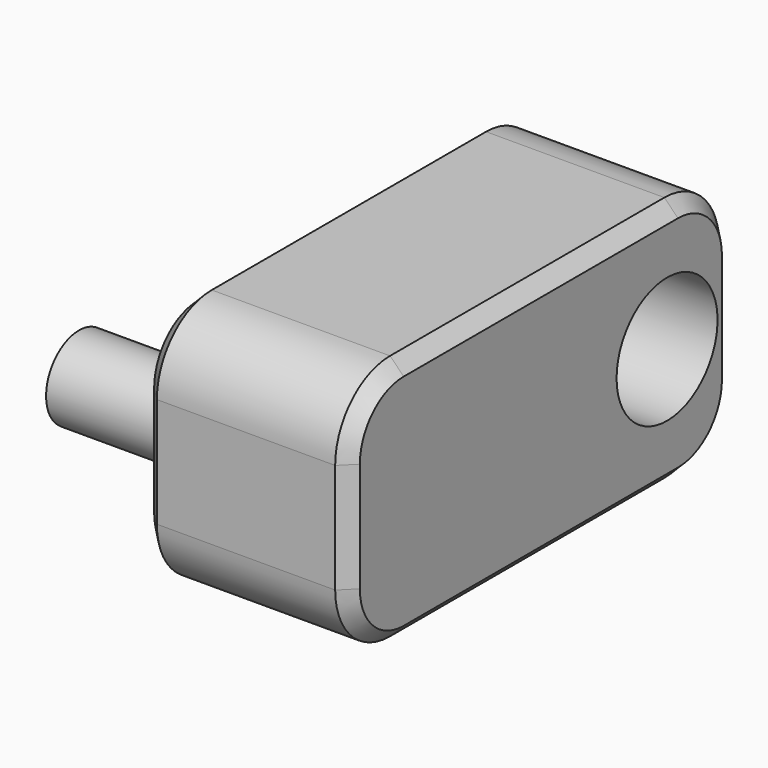
from build123d import *

# Parameters (mm, degrees)
F0_W     = 75
F0_H     = 90
F1_DEPTH = 175
F2_R     = 25
F3_SIZE  = 5
F4_R     = 23
F5_DEPTH = 75.001
F6_R     = 15
F7_DEPTH = 45


with BuildPart() as f1:
    # F0 (on Front) → F1 (new body)
    with BuildSketch(Plane.XZ):
        Rectangle(F0_W, F0_H)
    extrude(amount=F1_DEPTH)

    # F2
    f2_edges = [f1.edges().sort_by_distance(p)[0] for p in [
        (0, 0, 45),
        (0, 0, -45),
        (0, -175, -45),
        (0, -175, 45),
    ]]
    fillet(f2_edges, radius=F2_R)

    # F3
    f3_edges = [f1.edges().sort_by_distance(p)[0] for p in [
        (-37.5, -87.5, 45),
        (37.5, -167.67767, 37.67767),
    ]]
    chamfer(f3_edges, length=F3_SIZE)

    # F4 (on face) → F5 (cut, through all)
    with BuildSketch(Plane(origin=(-37.5, 0, 0), x_dir=(0, -1, 0), z_dir=(-1, 0, 0))):
        with Locations((30, 0)):
            Circle(F4_R)
    extrude(amount=-F5_DEPTH, mode=Mode.SUBTRACT)

    # F6 (on face) → F7 (join)
    with BuildSketch(Plane(origin=(-37.5, 0, 0), x_dir=(0, -1, 0), z_dir=(-1, 0, 0))):
        with Locations((148, 0)):
            Circle(F6_R)
    extrude(amount=F7_DEPTH)


solid = f1.part
